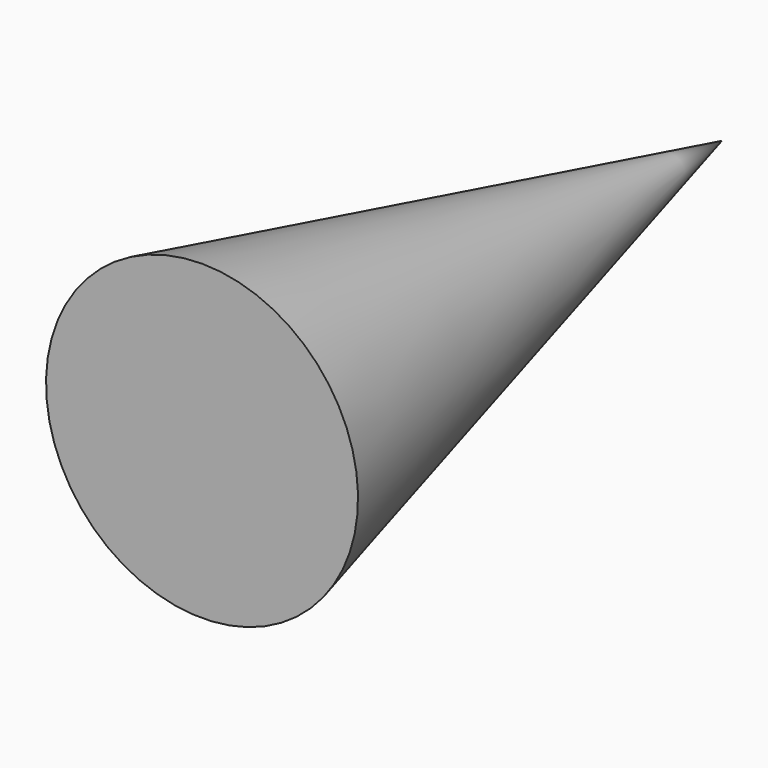
from build123d import *


with BuildPart() as part:
    # Sketch → Revolution (revolve)
    with BuildSketch(Plane.YZ):
        Polygon((0, 0), (-270, 64.821265), (-270, 0), align=None)
    revolve(axis=Axis((0, 0, 0), (0, 1, 0)))


solid = part.part
